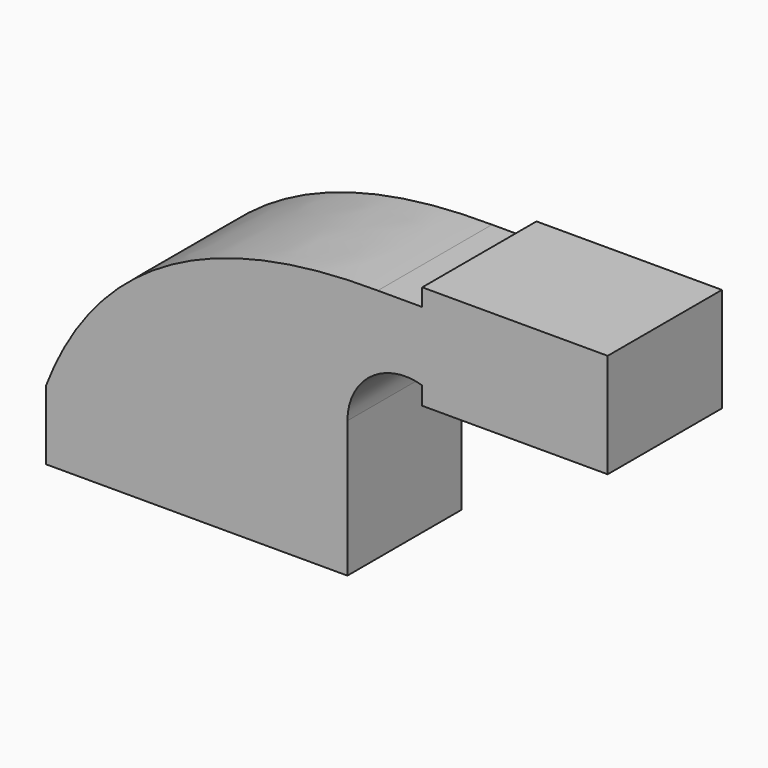
from build123d import *

# Parameters (mm, degrees)
F1_DEPTH = 39.116


with BuildPart() as f1:
    # F0 (on Front) → F1 (new body)
    with BuildSketch(Plane.XZ):
        with BuildLine():
            add(Edge.make_bspline(
                [(-41.275, 9.525), (-25.574898, 50.303995), (11.135023, 62.302421), (49.591212, 61.9252)],
                knots=[0, 0, 0, 0, 104.892561, 104.892561, 104.892561, 104.892561], degree=3))
            Line((-41.275, 9.525), (22.225, 9.525))
            Line((22.225, 9.525), (22.225, 27.827981))
            ThreePointArc((22.225, 27.827981), (29.912652, 49.688504), (49.591212, 61.9252))
        make_face()
        Polygon((22.225, 9.525), (-41.275, 9.525), (-41.275, -9.525), (41.275, -9.525), (41.275, 9.525), align=None)
        with BuildLine():
            Line((22.225, 27.827981), (22.225, 9.525))
            Line((22.225, 9.525), (41.275, 9.525))
            Line((41.275, 9.525), (41.275, 27.827981))
            ThreePointArc((41.275, 27.827981), (47.699374, 40.583422), (61.7728, 43.014993))
            Line((61.7728, 43.014993), (61.7728, 61.9252))
            Line((61.7728, 61.9252), (49.591212, 61.9252))
            ThreePointArc((49.591212, 61.9252), (29.912652, 49.688504), (22.225, 27.827981))
        make_face()
        Polygon((61.7728, 66.675), (61.7728, 61.9252), (61.7728, 43.014993), (61.7728, 38.1), (112.5728, 38.1), (112.5728, 66.675), align=None)
    extrude(amount=F1_DEPTH)


solid = f1.part
